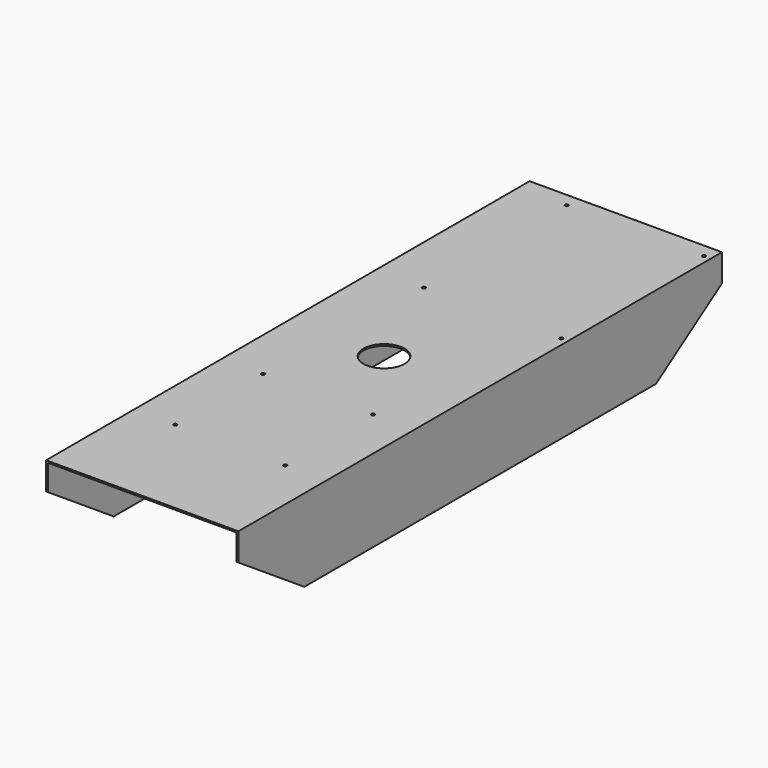
from build123d import *

# Parameters (mm, degrees)
F0_W     = 1117.6
F0_H     = 152.4
F1_DEPTH = 355.6
F2_W     = 349.25
F2_H     = 149.225
F3_DEPTH = 1117.601
F5_DEPTH = 355.601
F6_R     = 38.1
F6_R_2   = 3.175
F7_DEPTH = 152.401


with BuildPart() as f1:
    # F0 (on Right) → F1 (new body)
    with BuildSketch(Plane.YZ):
        with Locations((0, -76.2)):
            Rectangle(F0_W, F0_H)
    extrude(amount=-F1_DEPTH)

    # F2 (on face) → F3 (cut, through all)
    with BuildSketch(Plane.XZ.offset(558.8)):
        with Locations((-177.8, -77.7875)):
            Rectangle(F2_W, F2_H)
    extrude(amount=-F3_DEPTH, mode=Mode.SUBTRACT)

    # F4 (on face) → F5 (cut, through all)
    with BuildSketch(Plane.YZ):
        Polygon((-406.4, -152.4), (-558.8, -50.8), (-558.8, -152.4), align=None)
        Polygon((558.8, -152.4), (558.8, -50.8), (406.4, -152.4), align=None)
    extrude(amount=-F5_DEPTH, mode=Mode.SUBTRACT)

    # F6 (on face) → F7 (cut, through all)
    with BuildSketch(Plane.XY):
        with Locations((-177.8, 0)):
            Circle(F6_R)
        with Locations((-12.7, 203.2)):
            Circle(F6_R_2)
        with Locations((-266.7, 203.2)):
            Circle(F6_R_2)
        with Locations((-266.7, 533.4)):
            Circle(F6_R_2)
        with Locations((-12.7, 533.4)):
            Circle(F6_R_2)
        with Locations((-76.2, -355.6)):
            Circle(F6_R_2)
        with Locations((-76.2, -152.4)):
            Circle(F6_R_2)
        with Locations((-279.4, -152.4)):
            Circle(F6_R_2)
        with Locations((-279.4, -355.6)):
            Circle(F6_R_2)
    extrude(amount=-F7_DEPTH, mode=Mode.SUBTRACT)


solid = f1.part
